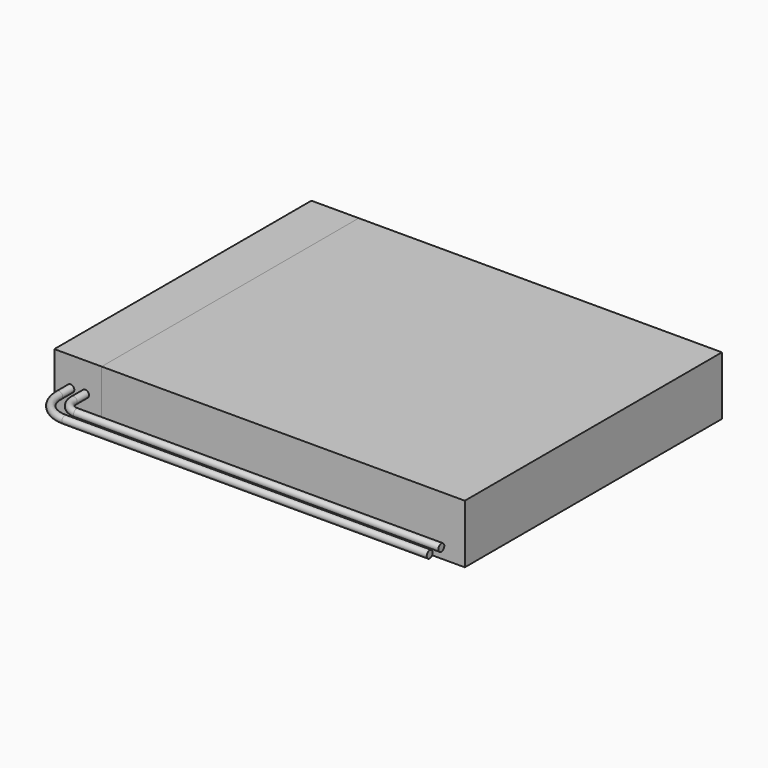
from build123d import *

# Parameters (mm, degrees)
F0_W     = 44.45
F0_H     = 34.798
F1_DEPTH = 6.35
F2_W     = 5.125
F2_H     = 34.798
F3_DEPTH = 6.351
F4_DEPTH = 6.35
F6_R     = 0.396875


with BuildPart() as f1:
    # F0 (on Top) → F1 (new body)
    with BuildSketch(Plane.XY):
        Rectangle(F0_W, F0_H)
    extrude(amount=F1_DEPTH)

    # F2 (on face) → F3 (cut, through all)
    with BuildSketch(Plane.XY.offset(6.35)):
        with Locations((-19.6625, 0)):
            Rectangle(F2_W, F2_H)
    extrude(amount=-F3_DEPTH, mode=Mode.SUBTRACT)


with BuildPart() as f4:
    # F2 (on face) → F4 (new body, through all)
    with BuildSketch(Plane.XY.offset(6.35)):
        with Locations((-19.6625, 0)):
            Rectangle(F2_W, F2_H)
    extrude(amount=-F4_DEPTH)


with BuildPart() as f8:
    # F8: sweep along a path in F7
    with BuildLine(Plane.XY.offset(3.175)) as f8_path:
        Line((-18.86875, -17.399), (-18.86875, -18.9865))
        ThreePointArc((-18.86875, -18.9865), (-18.4037820151, -20.1090320151), (-17.28125, -20.574))
        Line((-17.28125, -20.574), (22.225, -20.574))
    # F6 (on face) → F8 (sweep)
    with BuildSketch(Plane.XZ.offset(17.399)):
        with Locations((-18.86875, 3.175)):
            Circle(F6_R)
    sweep(path=f8_path.line)


with BuildPart() as f9:
    # F9: sweep along a path in F7
    with BuildLine(Plane.XY.offset(3.175)) as f9_path:
        Line((-20.45625, -17.399), (-20.45625, -18.9865))
        ThreePointArc((-20.45625, -18.9865), (-19.5247475, -21.2286983837), (-17.28125, -22.1570676353))
        Line((-17.28125, -22.1570676353), (22.225, -22.1570676353))
    # F6 (on face) → F9 (sweep)
    with BuildSketch(Plane.XZ.offset(17.399)):
        with Locations((-20.45625, 3.175)):
            Circle(F6_R)
    sweep(path=f9_path.line)


solid = Compound([f1.part, f4.part, f8.part, f9.part])
